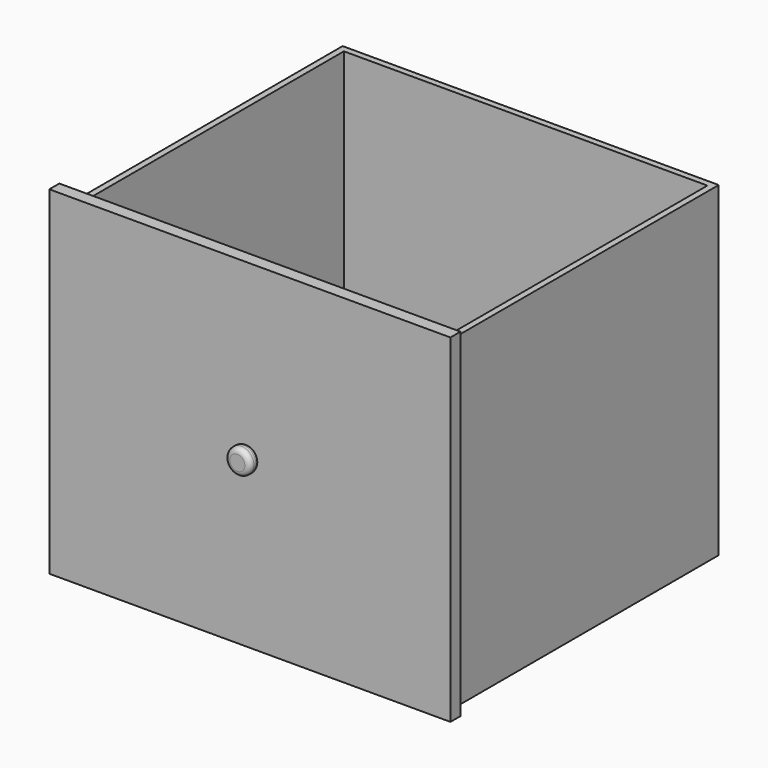
from build123d import *

# Parameters (mm, degrees)
F0_W     = 381
F0_H     = 342.9
F1_DEPTH = 330.2
F2_T     = -6.35
F4_DEPTH = 12.7
F5_R     = 6.35
F6_DEPTH = 3.175
F7_R     = 12.7
F8_DEPTH = 12.7
F9_R     = 5.08


with BuildPart() as f1:
    # F0 (on Top) → F1 (new body)
    with BuildSketch(Plane.XY):
        with Locations((83.37315, 21.438057)):
            Rectangle(F0_W, F0_H)
    extrude(amount=F1_DEPTH)

    # F2
    f2_openings = [f1.faces().sort_by_distance(p)[0] for p in [
        (83.37315, 21.438057, 330.2),
    ]]
    offset(amount=F2_T, openings=f2_openings)

    # F3 (on face) → F4 (join)
    with BuildSketch(Plane.XZ.offset(150.011943)):
        Polygon((286.57315, 0), (286.57315, 342.9), (-119.82685, 342.9), (-119.82685, 0), (-107.12685, 0), (273.87315, 0), align=None)
    extrude(amount=F4_DEPTH)

    # F5 (on face) → F6 (join)
    with BuildSketch(Plane.XZ.offset(162.711943)):
        with Locations((83.37315, 171.45)):
            Circle(F5_R)
    extrude(amount=F6_DEPTH)

    # F7 (on face) → F8 (join)
    with BuildSketch(Plane.XZ.offset(165.886943)):
        with Locations((83.37315, 171.45)):
            Circle(F7_R)
    extrude(amount=F8_DEPTH)

    # F9
    f9_edges = [f1.edges().sort_by_distance(p)[0] for p in [
        (70.67315, -178.586943, 171.45),
        (70.67315, -165.886943, 171.45),
    ]]
    fillet(f9_edges, radius=F9_R)


solid = f1.part
